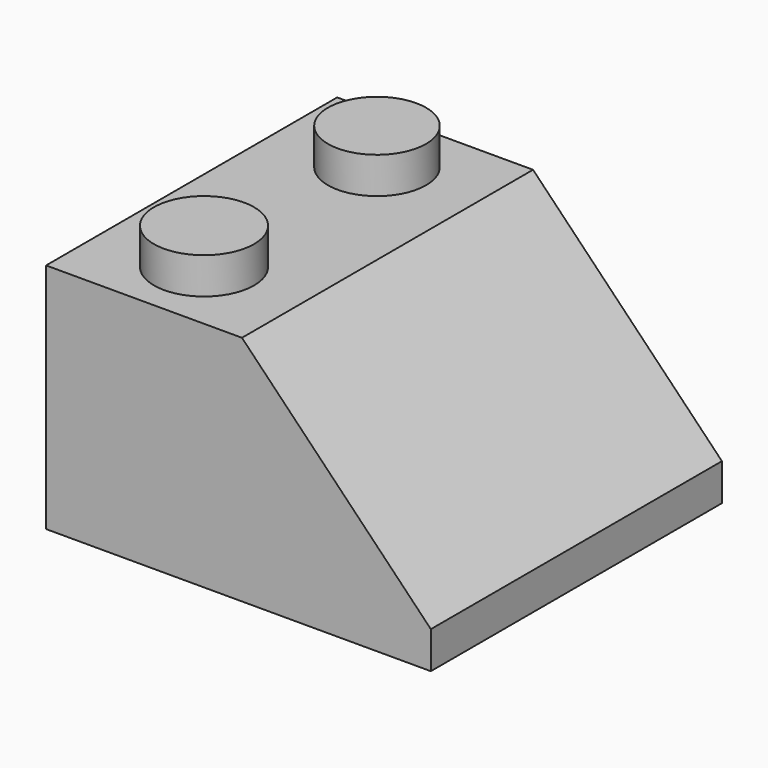
from build123d import *

# Parameters (mm, degrees)
F1_DEPTH = 15
F2_R     = 2.063261
F2_R_2   = 2.023213
F3_DEPTH = 1.5


with BuildPart() as f1:
    # F0 (on Front) → F1 (new body)
    with BuildSketch(Plane.XZ):
        Polygon((0, 9.569434), (0, 0), (15.861647, 0), (15.861647, 1.526309), (8.075217, 9.569434), align=None)
    extrude(amount=F1_DEPTH)

    # F2 (on face) → F3 (join)
    with BuildSketch(Plane.XY.offset(9.569434)):
        with Locations((4.037608, -11.90827)):
            Circle(F2_R)
        with Locations((4.037608, -2.994718)):
            Circle(F2_R_2)
    extrude(amount=F3_DEPTH)


solid = f1.part
